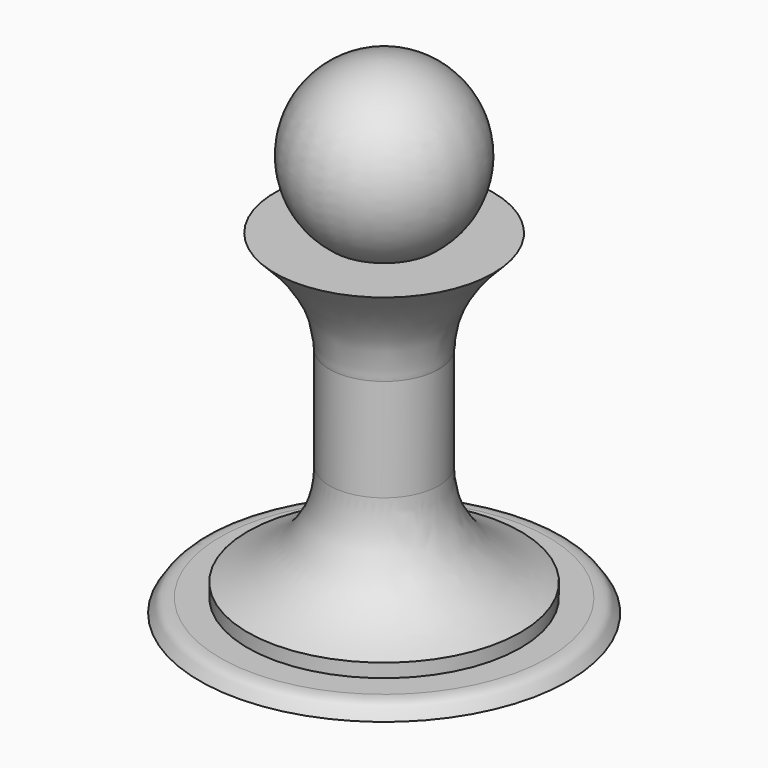
from build123d import *


with BuildPart() as f1:
    # F0 (on Front) → F1 (revolve)
    with BuildSketch(Plane.XZ):
        with BuildLine():
            Line((-13.740452, -10.580902), (-22.240452, -10.580902))
            ThreePointArc((-22.240452, -10.580902), (-17.881911, 3.371945), (-29.740452, 11.919098))
            Line((-29.740452, 11.919098), (-29.740452, -59.580902))
            Line((-29.740452, -59.580902), (-2.740452, -59.580902))
            add(Edge.make_bspline(
                [(-2.740452, -59.580902), (-3.541401, -58.527526), (-3.541401, -57.564959), (-5.740452, -57.580902)],
                knots=[0, 0, 0, 0, 3.605551, 3.605551, 3.605551, 3.605551], degree=3))
            Line((-5.740452, -57.580902), (-9.740452, -57.580902))
            Line((-9.740452, -57.580902), (-9.740452, -55.580902))
            add(Edge.make_bspline(
                [(-21.740452, -40.580902), (-21.768171, -51.726915), (-11.44431, -54.835711), (-9.740452, -55.580902)],
                knots=[0, 0, 0, 0, 19.209373, 19.209373, 19.209373, 19.209373], degree=3))
            Line((-21.740452, -40.580902), (-21.740452, -25.580902))
            add(Edge.make_bspline(
                [(-13.740452, -10.580902), (-22.564874, -19.068293), (-21.347321, -24.326921), (-21.740452, -25.580902)],
                knots=[0, 0, 0, 0, 17, 17, 17, 17], degree=3))
        make_face()
    revolve(axis=Axis((-29.740452, 0, -23.830902), (0, 0, 1)))


solid = f1.part
